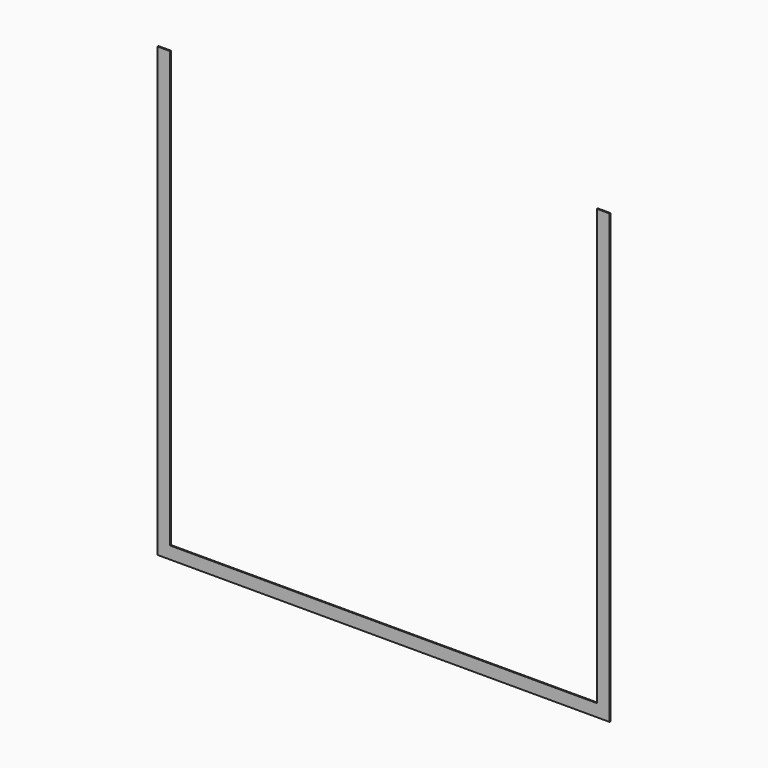
from build123d import *

# Parameters (mm, degrees)
BOX010_W     = 103
BOX010_H     = 0.25
BOX010_DEPTH = 106
BOX009_W     = 109
BOX009_H     = 0.25
BOX009_DEPTH = 108


with BuildPart() as obj1:
    # Box010 → Box010 (new body)
    with BuildSketch(Plane(origin=(3, 0, 3), x_dir=(1, 0, 0), z_dir=(0, 0, 1))):
        with Locations((51.5, 0.125)):
            Rectangle(BOX010_W, BOX010_H)
    extrude(amount=BOX010_DEPTH)


with BuildPart() as cut003:
    # Box009 → Box009 (new body)
    with BuildSketch(Plane.XY):
        with Locations((54.5, 0.125)):
            Rectangle(BOX009_W, BOX009_H)
    extrude(amount=BOX009_DEPTH)

    # Cut003: cut obj1
    add(obj1.part, mode=Mode.SUBTRACT)


solid = cut003.part
